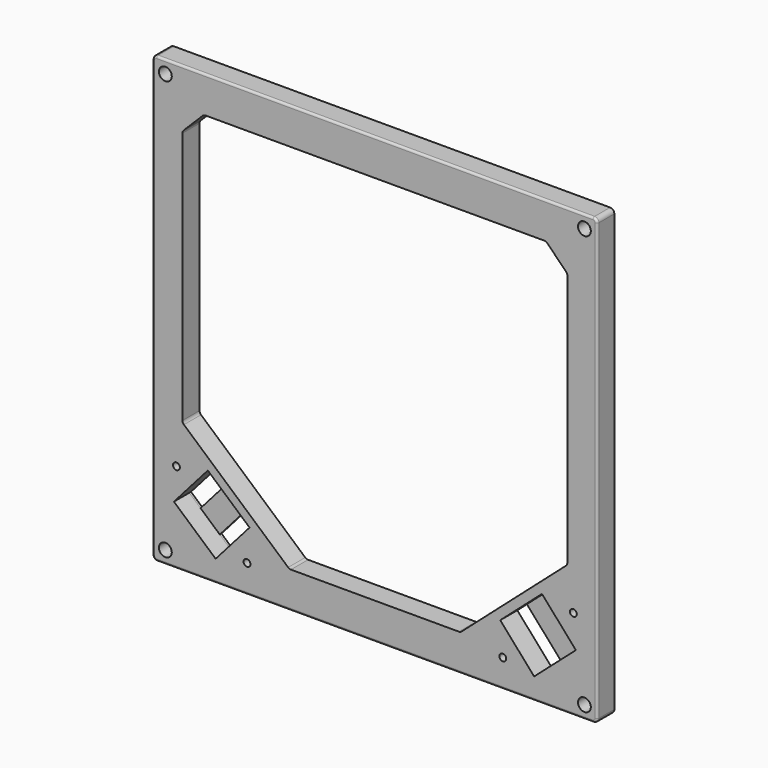
from build123d import *

# Parameters (mm, degrees)
F0_W      = 104
F0_H      = 104
F0_R      = 1.5
F1_DEPTH  = 5
F1_FACE_W = 104
F1_FACE_H = 104
F1_FACE_R = 1.5
F3_DEPTH  = 25
F5_DEPTH  = 4.5
F7_DEPTH  = 2
F8_D      = 1.6
F8_DEPTH  = 15
F9_R      = 1
F10_R     = 0.5


with BuildPart() as f1:
    # F0 (on Front) → F1 (new body)
    with BuildSketch(Plane.XZ):
        Rectangle(F0_W, F0_H)
        with Locations((-49, -49)):
            Circle(F0_R, mode=Mode.SUBTRACT)
        with Locations((49, -49)):
            Circle(F0_R, mode=Mode.SUBTRACT)
        with Locations((-49, 49)):
            Circle(F0_R, mode=Mode.SUBTRACT)
        with Locations((49, 49)):
            Circle(F0_R, mode=Mode.SUBTRACT)
    extrude(amount=F1_DEPTH)

    # F2 (on Front) + F1_face (on face) → F3 (cut)
    with BuildSketch(Plane.XZ):
        Polygon((40, 43.5), (-40, 43.5), (-45, 38.5), (-45, -21.5), (-20, -43.5), (20, -43.5), (45, -21.5), (45, 38.5), align=None)
    with BuildSketch(Plane.XZ.offset(5)):
        Rectangle(F1_FACE_W, F1_FACE_H)
        with Locations((-49, -49)):
            Circle(F1_FACE_R, mode=Mode.SUBTRACT)
        with Locations((49, -49)):
            Circle(F1_FACE_R, mode=Mode.SUBTRACT)
        with Locations((-49, 49)):
            Circle(F1_FACE_R, mode=Mode.SUBTRACT)
        with Locations((49, 49)):
            Circle(F1_FACE_R, mode=Mode.SUBTRACT)
    extrude(amount=F3_DEPTH, mode=Mode.SUBTRACT)

    # F4 (on face) → F5 (cut)
    with BuildSketch(Plane.XZ.offset(5)):
        Polygon((-29.31319, -37.991438), (-39.072465, -29.403275), (-47, -38.411837), (-37.240724, -47), align=None)
        Polygon((47, -38.411837), (39.072465, -29.403275), (29.31319, -37.991438), (37.240724, -47), align=None)
    extrude(amount=-F5_DEPTH, mode=Mode.SUBTRACT)

    # F6 (on face) → F7 (cut)
    with BuildSketch(Plane.XZ.offset(0.5)):
        Polygon((-39.072465, -29.403275), (-47, -38.411837), (-44.372503, -40.724035), (-36.444968, -31.715473), align=None)
        Polygon((-29.31319, -37.991438), (-31.940687, -35.67924), (-39.868222, -44.687802), (-37.240724, -47), align=None)
        Polygon((31.940687, -35.67924), (29.31319, -37.991438), (37.240724, -47), (39.868222, -44.687802), align=None)
        Polygon((36.444968, -31.715473), (44.372503, -40.724035), (47, -38.411837), (39.072465, -29.403275), align=None)
    extrude(amount=-F7_DEPTH, mode=Mode.SUBTRACT)

    # F8
    with Locations(Plane.XZ.offset(5)):
        with Locations((-46.414443, -30.934731), (-29.898746, -45.468544), (29.898746, -45.468544), (46.414443, -30.934731)):
            Hole(F8_D / 2, depth=F8_DEPTH)

    # F9
    f9_edges = [f1.edges().sort_by_distance(p)[0] for p in [
        (-52, -2.5, 52),
        (52, -2.5, 52),
        (52, -2.5, -52),
        (-52, -2.5, -52),
        (-45, -2.5, -21.5),
        (-20, -2.5, -43.5),
        (20, -2.5, -43.5),
        (45, -2.5, -21.5),
        (-45, -2.5, 38.5),
        (-40, -2.5, 43.5),
        (40, -2.5, 43.5),
        (45, -2.5, 38.5),
    ]]
    fillet(f9_edges, radius=F9_R)

    # F10
    f10_edges = [f1.edges().sort_by_distance(p)[0] for p in [
        (0, -5, -52),
    ]]
    fillet(f10_edges, radius=F10_R)


solid = f1.part
